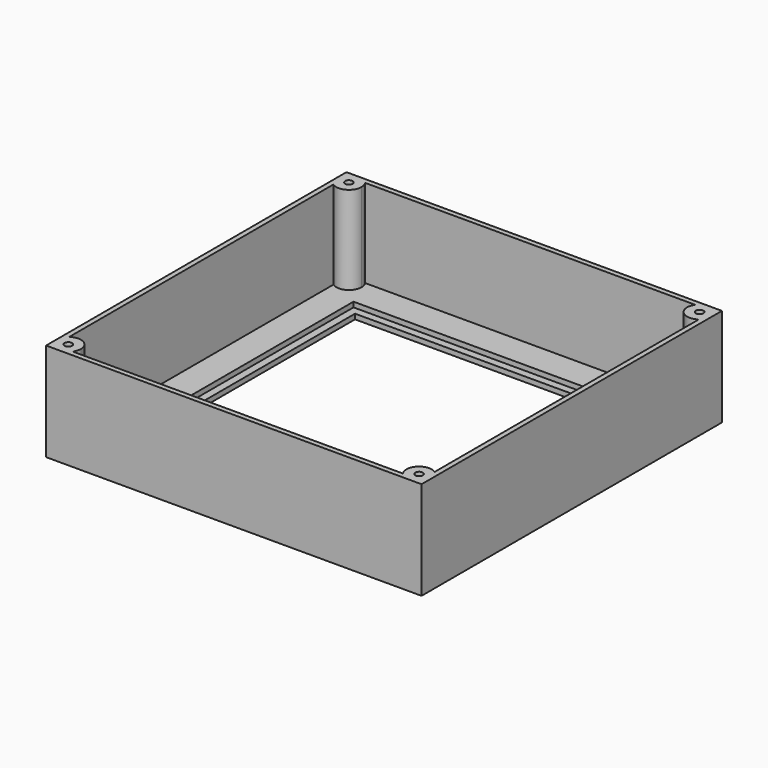
from build123d import *

# Parameters (mm, degrees)
F1_DEPTH = 4
F0_W     = 115
F0_H     = 3
F0_W_2   = 3
F0_H_2   = 115
F2_DEPTH = 2
F3_R     = 3
F4_DEPTH = 4
F5_W     = 149
F5_H     = 149
F6_DEPTH = 35
F7_R     = 1.5
F8_DEPTH = 35


with BuildPart() as f1:
    # F0 (on Top) → F1 (new body)
    with BuildSketch(Plane.XY):
        Polygon((74.5, 74.5), (60.5, 74.5), (-60.5, 74.5), (-74.5, 74.5), (-74.5, 60.5), (-74.5, -60.5), (-74.5, -74.5), (-60.5, -74.5), (60.5, -74.5), (74.5, -74.5), (74.5, -60.5), (74.5, 60.5), align=None)
        Polygon((57.5, 60.5), (60.5, 60.5), (60.5, 57.5), (60.5, -57.5), (60.5, -60.5), (57.5, -60.5), (-57.5, -60.5), (-60.5, -60.5), (-60.5, -57.5), (-60.5, 57.5), (-60.5, 60.5), (-57.5, 60.5), align=None, mode=Mode.SUBTRACT)
    extrude(amount=F1_DEPTH)

    # F0 (on Top) → F2 (join)
    with BuildSketch(Plane.XY):
        with Locations((0, 59)):
            Rectangle(F0_W, F0_H)
        with Locations((59, 59)):
            Rectangle(F0_W_2, F0_H)
        with Locations((59, 0)):
            Rectangle(F0_W_2, F0_H_2)
        with Locations((59, -59)):
            Rectangle(F0_W_2, F0_H)
        with Locations((0, -59)):
            Rectangle(F0_W, F0_H)
        with Locations((-59, 0)):
            Rectangle(F0_W_2, F0_H_2)
        with Locations((-59, -59)):
            Rectangle(F0_W_2, F0_H)
        with Locations((-59, 59)):
            Rectangle(F0_W_2, F0_H)
    extrude(amount=F2_DEPTH)

    # F3 (on face) → F4 (cut, through all)
    with BuildSketch(Plane.XY.offset(4)):
        with Locations((42.5219088793, 68.0854469538)):
            Circle(F3_R)
    extrude(amount=-F4_DEPTH, mode=Mode.SUBTRACT)

    # F5 (on face) → F6 (join)
    with BuildSketch(Plane.XY.offset(4)):
        Rectangle(F5_W, F5_H)
        Polygon((-60.5, 72.5), (60.5, 72.5), (72.5, 72.5), (72.5, 60.5), (72.5, -60.5), (72.5, -72.5), (60.5, -72.5), (-60.5, -72.5), (-72.5, -72.5), (-72.5, -60.5), (-72.5, 60.5), (-72.5, 72.5), align=None, mode=Mode.SUBTRACT)
    extrude(amount=F6_DEPTH)

    # F7 (on face) → F8 (join)
    with BuildSketch(Plane.XY.offset(39)):
        with BuildLine():
            ThreePointArc((-72.5, 65.5269179106), (-67.3087125968, 65.1559040438), (-64.6000009775, 69.6000009775))
            ThreePointArc((-64.6000009775, 69.6000009775), (-64.8373643478, 71.1222665039), (-65.5269179106, 72.5))
            Line((-65.5269179106, 72.5), (-72.5, 72.5))
            Line((-72.5, 72.5), (-72.5, 65.5269179106))
        make_face()
        with Locations((-69.6000009775, 69.6000009775)):
            Circle(F7_R, mode=Mode.SUBTRACT)
        with BuildLine():
            Line((72.5, 72.5), (65.5269179106, 72.5))
            ThreePointArc((65.5269179106, 72.5), (66.0644670716, 66.0644670716), (72.5, 65.5269179106))
            Line((72.5, 65.5269179106), (72.5, 72.5))
        make_face()
        with Locations((69.6000009775, 69.6000009775)):
            Circle(F7_R, mode=Mode.SUBTRACT)
        with BuildLine():
            Line((72.5, -72.5), (72.5, -65.5269179106))
            ThreePointArc((72.5, -65.5269179106), (66.0644670716, -66.0644670716), (65.5269179106, -72.5))
            Line((65.5269179106, -72.5), (72.5, -72.5))
        make_face()
        with Locations((69.6000009775, -69.6000009775)):
            Circle(F7_R, mode=Mode.SUBTRACT)
        with BuildLine():
            ThreePointArc((-64.6000009775, -69.6000009775), (-67.3087125968, -65.1559040438), (-72.5, -65.5269179106))
            Line((-72.5, -65.5269179106), (-72.5, -72.5))
            Line((-72.5, -72.5), (-65.5269179106, -72.5))
            ThreePointArc((-65.5269179106, -72.5), (-64.8373643478, -71.1222665039), (-64.6000009775, -69.6000009775))
        make_face()
        with Locations((-69.6000009775, -69.6000009775)):
            Circle(F7_R, mode=Mode.SUBTRACT)
    extrude(amount=-F8_DEPTH)


solid = f1.part
